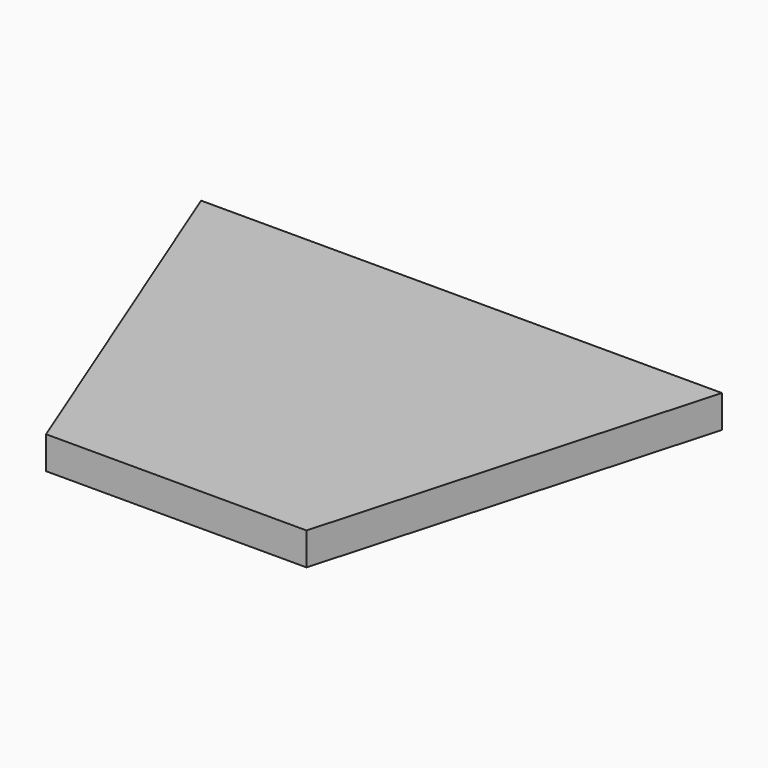
from build123d import *

# Parameters (mm, degrees)
F1_DEPTH = 25
F2_DEPTH = 25
F3_DEPTH = 25
F4_DEPTH = 25
F5_DEPTH = 25
F6_DEPTH = 25


with BuildPart() as f1:
    # F0 (on Top) → F1 (new body)
    with BuildSketch(Plane.XY):
        Polygon((264.877629, 90.833528), (-135.122371, 90.833528), (-18.141241, -204.166472), (181.858759, -204.166472), align=None)
    extrude(amount=F1_DEPTH)

    # F0 (on Top) → F2 (join)
    with BuildSketch(Plane.XY):
        Polygon((264.877629, 90.833528), (-135.122371, 90.833528), (-18.141241, -204.166472), (181.858759, -204.166472), align=None)
    extrude(amount=F2_DEPTH)

    # F0 (on Top) → F3 (join)
    with BuildSketch(Plane.XY):
        Polygon((264.877629, 90.833528), (-135.122371, 90.833528), (-18.141241, -204.166472), (181.858759, -204.166472), align=None)
    extrude(amount=F3_DEPTH)

    # F0 (on Top) → F4 (join)
    with BuildSketch(Plane.XY):
        Polygon((264.877629, 90.833528), (-135.122371, 90.833528), (-18.141241, -204.166472), (181.858759, -204.166472), align=None)
    extrude(amount=F4_DEPTH)

    # F0 (on Top) → F5 (join)
    with BuildSketch(Plane.XY):
        Polygon((264.877629, 90.833528), (-135.122371, 90.833528), (-18.141241, -204.166472), (181.858759, -204.166472), align=None)
    extrude(amount=F5_DEPTH)

    # F0 (on Top) → F6 (join)
    with BuildSketch(Plane.XY):
        Polygon((264.877629, 90.833528), (-135.122371, 90.833528), (-18.141241, -204.166472), (181.858759, -204.166472), align=None)
    extrude(amount=F6_DEPTH)


solid = f1.part
